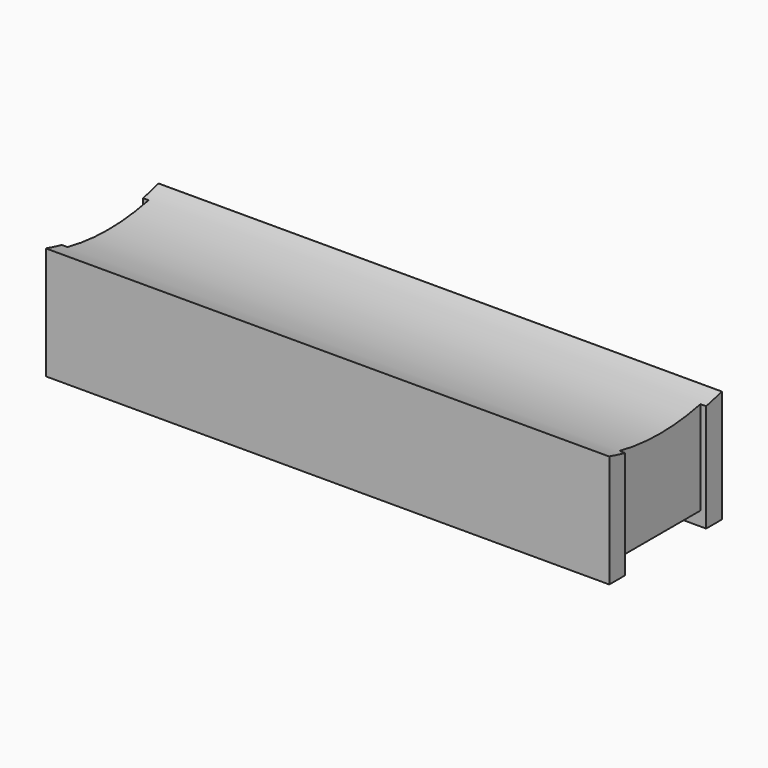
from build123d import *

# Parameters (mm, degrees)
F0_W     = 50.8
F0_H     = 12.7
F1_DEPTH = 10.16
F2_W     = 51.661278
F2_H     = 9.144
F3_DEPTH = 1.27
F5_DEPTH = 59.69
F7_DEPTH = 0.508
F9_DEPTH = 0.508


with BuildPart() as f1:
    # F0 (on Top) → F1 (new body)
    with BuildSketch(Plane.XY):
        with Locations((-25.4, 6.35)):
            Rectangle(F0_W, F0_H)
    extrude(amount=F1_DEPTH)

    # F2 (on Top) → F3 (cut)
    with BuildSketch(Plane.XY):
        with Locations((-25.830639, 6.35)):
            Rectangle(F2_W, F2_H)
    extrude(amount=F3_DEPTH, mode=Mode.SUBTRACT)

    # F4 (on face) → F5 (cut)
    with BuildSketch(Plane.YZ):
        with BuildLine():
            ThreePointArc((12.619456, 10.16), (23.691939, 17.959451), (27.94, 30.819671))
            ThreePointArc((27.94, 30.819671), (-6.51022, 48.16161), (0.080544, 10.16))
            Line((0.080544, 10.16), (12.619456, 10.16))
        make_face()
        with BuildLine():
            Line((12.619456, 10.16), (0.080544, 10.16))
            ThreePointArc((0.080544, 10.16), (6.35, 9.229671), (12.619456, 10.16))
        make_face()
    extrude(amount=-F5_DEPTH, mode=Mode.SUBTRACT)

    # F6 (on face) → F7 (cut)
    with BuildSketch(Plane.YZ):
        with BuildLine():
            Line((1.778, 9.719318), (1.778, 1.27))
            Line((1.778, 1.27), (10.922, 1.27))
            Line((10.922, 1.27), (10.922, 9.719318))
            ThreePointArc((10.922, 9.719318), (6.35, 9.229671), (1.778, 9.719318))
        make_face()
    extrude(amount=-F7_DEPTH, mode=Mode.SUBTRACT)

    # F8 (on face) → F9 (cut)
    with BuildSketch(Plane(origin=(-50.8, 0, 0), x_dir=(0, -1, 0), z_dir=(-1, 0, 0))):
        with BuildLine():
            Line((-10.922, 1.27), (-1.778, 1.27))
            Line((-1.778, 1.27), (-1.778, 9.719318))
            ThreePointArc((-1.778, 9.719318), (-6.35, 9.229671), (-10.922, 9.719318))
            Line((-10.922, 9.719318), (-10.922, 1.27))
        make_face()
    extrude(amount=-F9_DEPTH, mode=Mode.SUBTRACT)


solid = f1.part
